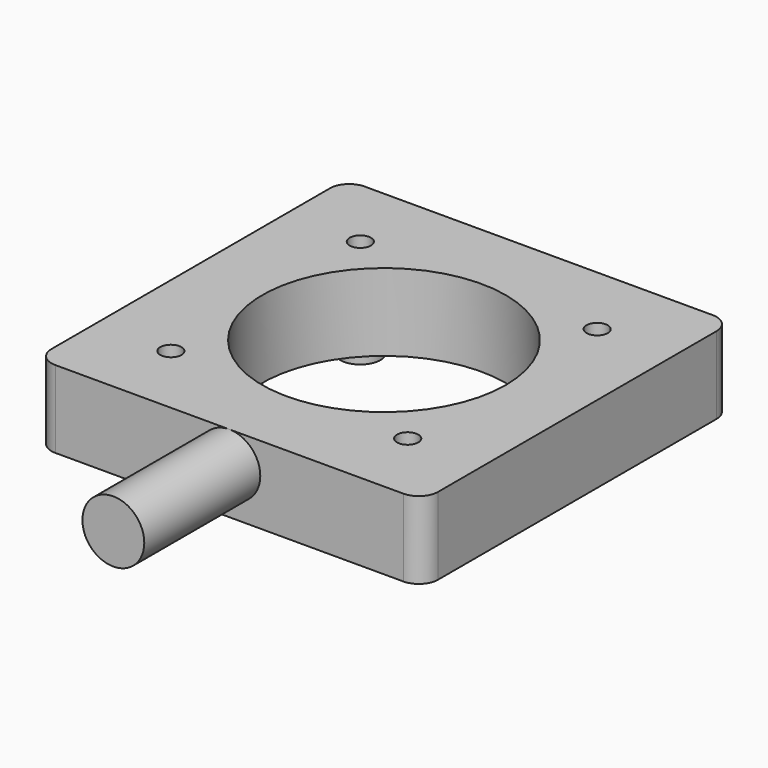
from build123d import *

# Parameters (mm, degrees)
SKETCH_W      = 40
SKETCH_H      = 40
PAD_DEPTH     = 8
SKETCH002_R   = 12.6
HOLE001_DEPTH = 20.001
FILLET_R      = 2
SKETCH003_R   = 2.1
PAD001_DEPTH  = 2.1
SKETCH001_R   = 1.1
HOLE_DEPTH    = 10.101
SKETCH004_R   = 3.2
PAD002_DEPTH  = 15


with BuildPart() as part:
    # Sketch → Pad (new body)
    with BuildSketch(Plane.XY):
        Rectangle(SKETCH_W, SKETCH_H)
    extrude(amount=PAD_DEPTH)

    # Sketch002 → Hole001 (cut, through all)
    with BuildSketch(Plane.XY.offset(20)):
        Circle(SKETCH002_R)
    extrude(amount=-HOLE001_DEPTH, mode=Mode.SUBTRACT)

    # Fillet
    fillet_edges = [part.edges().sort_by_distance(p)[0] for p in [
        (20, 20, 4),
        (20, -20, 4),
        (-20, -20, 4),
        (-20, 20, 4),
    ]]
    fillet(fillet_edges, radius=FILLET_R)

    # Sketch003 (on Face2 of Fillet) → Pad001 (join)
    with BuildSketch(Plane(origin=(0, 0, 0), x_dir=(1, 0, 0), z_dir=(0, 0, -1))):
        with Locations((-12.25, 12.25)):
            Circle(SKETCH003_R)
        with Locations((12.25, 12.25)):
            Circle(SKETCH003_R)
        with Locations((-12.25, -12.25)):
            Circle(SKETCH003_R)
        with Locations((12.25, -12.25)):
            Circle(SKETCH003_R)
    extrude(amount=PAD001_DEPTH)

    # Sketch001 (on Face6 of Pad) → Hole (cut, through all)
    with BuildSketch(Plane.XY.offset(8)):
        with Locations((12.25, -12.25)):
            Circle(SKETCH001_R)
        with Locations((-12.25, -12.25)):
            Circle(SKETCH001_R)
        with Locations((-12.25, 12.25)):
            Circle(SKETCH001_R)
        with Locations((12.25, 12.25)):
            Circle(SKETCH001_R)
    extrude(amount=-HOLE_DEPTH, mode=Mode.SUBTRACT)

    # Sketch004 (on Face7 of Hole) → Pad002 (join)
    with BuildSketch(Plane.XZ.offset(20)):
        with Locations((0, 4.8)):
            Circle(SKETCH004_R)
    extrude(amount=PAD002_DEPTH)


solid = part.part
